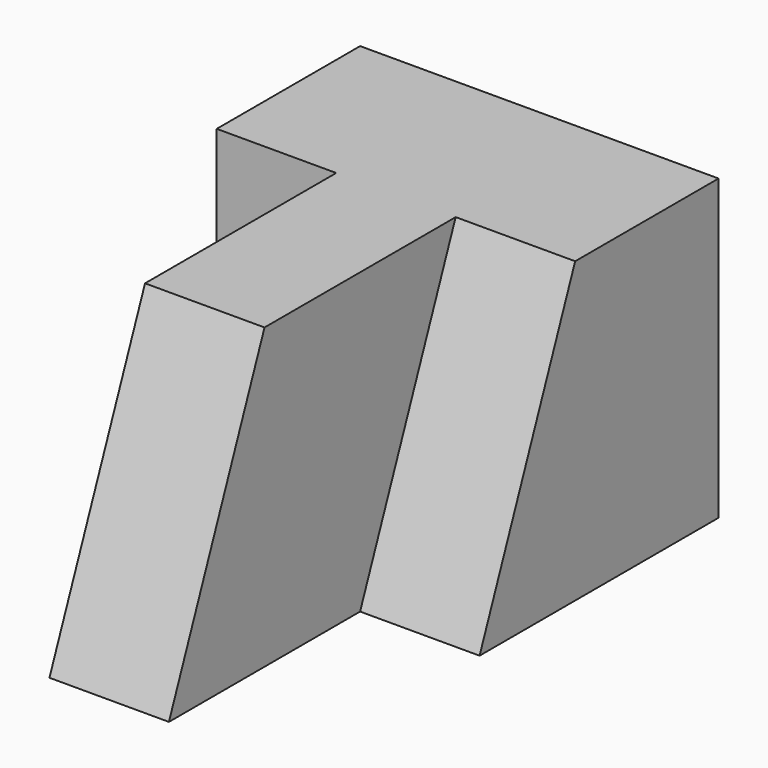
from build123d import *

# Parameters (mm, degrees)
F1_DEPTH = 31.75
F3_DEPTH = 12.7
F5_DEPTH = 12.7


with BuildPart() as f1:
    # F0 (on Top) → F1 (new body)
    with BuildSketch(Plane.XY):
        Polygon((18.381578, 44.45), (-19.718422, 44.45), (-19.718422, 25.4), (-7.018422, 25.4), (-7.018422, 0), (5.681578, 0), (5.681578, 25.4), (18.381578, 25.4), align=None)
    extrude(amount=F1_DEPTH)

    # F2 (on face) → F3 (join)
    with BuildSketch(Plane.YZ.offset(5.681578)):
        Polygon((12.7, 0), (25.4, 0), (25.4, 31.75), align=None)
    extrude(amount=F3_DEPTH)

    # F4 (on face) → F5 (join)
    with BuildSketch(Plane.YZ.offset(5.681578)):
        Polygon((-12.7, 0), (0, 0), (0, 31.75), align=None)
    extrude(amount=-F5_DEPTH)


solid = f1.part
